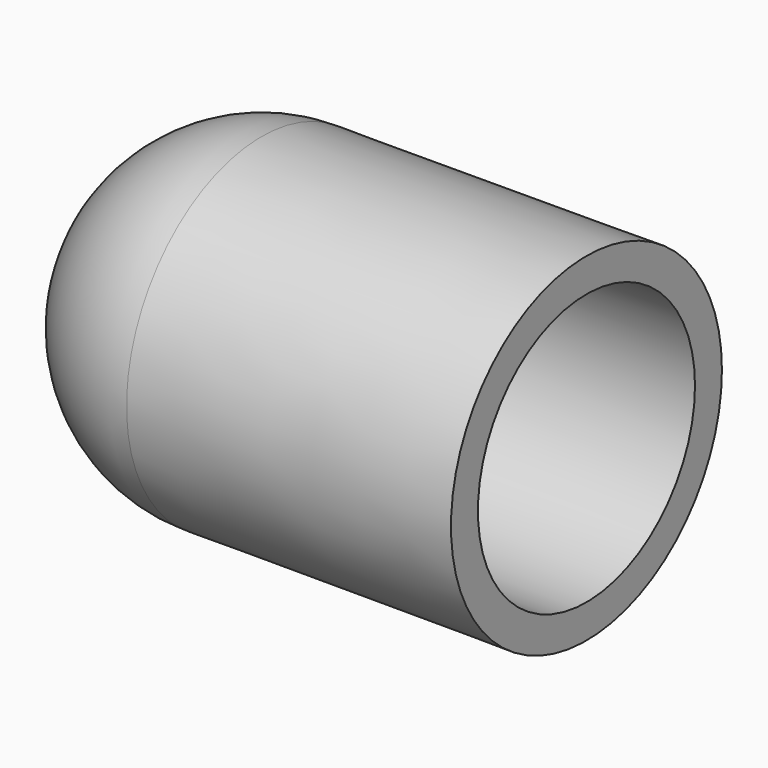
from build123d import *


with BuildPart() as f1:
    # F0 (on Top) → F1 (revolve)
    with BuildSketch(Plane.XY):
        with BuildLine():
            ThreePointArc((6.068706, 8.19822), (3.186969, 9.689336), (-0.017259, 10.199985))
            ThreePointArc((-0.017259, 10.199985), (-7.218588, 7.206385), (-10.2, 0))
            Line((-10.2, 0), (-8.2, 0))
            ThreePointArc((-8.2, 0), (-5.737551, 5.858371), (0.170855, 8.19822))
            Line((0.170855, 8.19822), (6.068706, 8.19822))
        make_face()
        with BuildLine():
            ThreePointArc((6.068706, 8.19822), (3.186969, 9.689336), (-0.017259, 10.199985))
            ThreePointArc((-0.017259, 10.199985), (-7.218588, 7.206385), (-10.2, 0))
            Line((-10.2, 0), (-8.2, 0))
            ThreePointArc((-8.2, 0), (-5.737551, 5.858371), (0.170855, 8.19822))
            Line((0.170855, 8.19822), (6.068706, 8.19822))
        make_face()
        with BuildLine():
            Line((19.616, 10.233205), (-0.017259, 10.199985))
            ThreePointArc((-0.017259, 10.199985), (3.186969, 9.689336), (6.068706, 8.19822))
            Line((6.068706, 8.19822), (19.616, 8.19822))
            Line((19.616, 8.19822), (19.616, 10.233205))
        make_face()
    revolve(axis=Axis((-9.2, 0, 0), (-1, 0, 0)))


solid = f1.part
